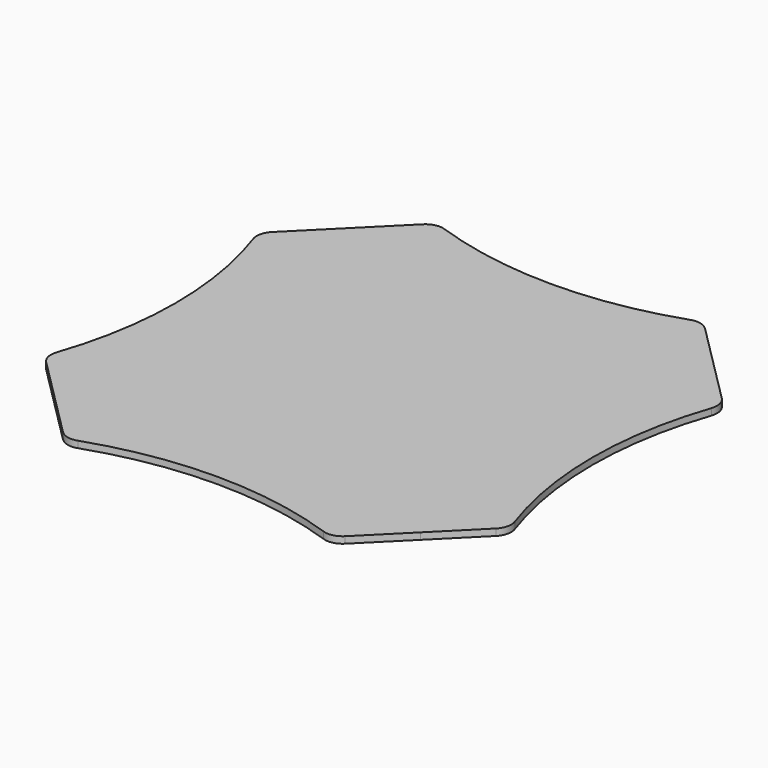
from build123d import *

# Parameters (mm, degrees)
F2_DEPTH = 1.5
F3_R     = 4


with BuildPart() as f2:
    # F1 (on Top) → F2 (new body)
    with BuildSketch(Plane.XY):
        with BuildLine():
            Line((-30.228815, 52.856232), (-41.542523, 41.542523))
            Line((-41.542523, 41.542523), (-52.856232, 30.228815))
            ThreePointArc((-52.856232, 30.228815), (-47.356232, 0), (-52.856232, -30.228815))
            Line((-52.856232, -30.228815), (-41.542523, -41.542523))
            Line((-41.542523, -41.542523), (-30.228815, -52.856232))
            ThreePointArc((-30.228815, -52.856232), (0, -47.356232), (30.228815, -52.856232))
            Line((30.228815, -52.856232), (41.542523, -41.542523))
            Line((41.542523, -41.542523), (52.856232, -30.228815))
            ThreePointArc((52.856232, -30.228815), (47.356232, 0), (52.856232, 30.228815))
            Line((52.856232, 30.228815), (41.542523, 41.542523))
            Line((41.542523, 41.542523), (30.228815, 52.856232))
            ThreePointArc((30.228815, 52.856232), (0, 47.356232), (-30.228815, 52.856232))
        make_face()
    extrude(amount=F2_DEPTH)

    # F3
    f3_edges = [f2.edges().sort_by_distance(p)[0] for p in [
        (-52.856232, 30.228815, 0.75),
        (-30.228815, 52.856232, 0.75),
        (30.228815, 52.856232, 0.75),
        (52.856232, 30.228815, 0.75),
        (52.856232, -30.228815, 0.75),
        (30.228815, -52.856232, 0.75),
        (-30.228815, -52.856232, 0.75),
        (-52.856232, -30.228815, 0.75),
    ]]
    fillet(f3_edges, radius=F3_R)


solid = f2.part
